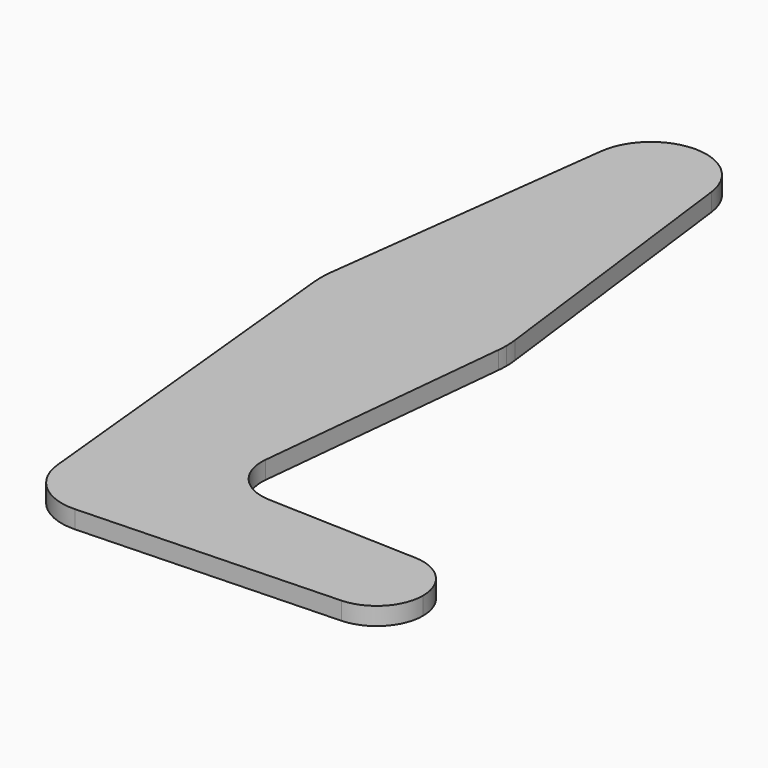
from build123d import *

# Parameters (mm, degrees)
F0_R     = 3.175
F1_DEPTH = 3.048


with BuildPart() as f1:
    # F0 (on Top) → F1 (new body)
    with BuildSketch(Plane.XY):
        with BuildLine():
            ThreePointArc((9.450293, 115.490625), (0, 123.825), (-9.450293, 115.490625))
            ThreePointArc((-9.450293, 115.490625), (-0.596483, 104.793695), (9.525, 114.3))
            ThreePointArc((9.525, 114.3), (9.506305, 114.896483), (9.450293, 115.490625))
        make_face()
        with Locations((0, 114.3)):
            Circle(F0_R, mode=Mode.SUBTRACT)
        with BuildLine():
            Line((-9.450293, 115.490625), (-15.750488, 65.484375))
            ThreePointArc((-15.750488, 65.484375), (0, 79.375), (15.750488, 65.484375))
            Line((15.750488, 65.484375), (9.450293, 115.490625))
            ThreePointArc((9.450293, 115.490625), (9.506305, 114.896483), (9.525, 114.3))
            ThreePointArc((9.525, 114.3), (-0.596483, 104.793695), (-9.450293, 115.490625))
        make_face()
        with Locations((-3.175, 100.0252)):
            Circle(F0_R, mode=Mode.SUBTRACT)
        with BuildLine():
            ThreePointArc((-15.750488, 65.484375), (-15.873744, 63.699705), (-15.795426, 61.9125))
            ThreePointArc((-15.795426, 61.9125), (0, 47.625), (15.795426, 61.9125))
            ThreePointArc((15.795426, 61.9125), (15.855094, 62.705253), (15.875, 63.5))
            ThreePointArc((15.875, 63.5), (15.843841, 64.494139), (15.750488, 65.484375))
            ThreePointArc((15.750488, 65.484375), (0, 79.375), (-15.750488, 65.484375))
        make_face()
        with Locations((0, 63.5)):
            Circle(F0_R, mode=Mode.SUBTRACT)
        with BuildLine():
            ThreePointArc((-9.477255, -0.9525), (-0.476848, 9.513056), (9.525, 0))
            ThreePointArc((9.525, 0), (6.85439, -6.613847), (0.340125, -9.518925))
            Line((0.340125, -9.518925), (44.740459, -7.932438))
            ThreePointArc((44.740459, -7.932438), (36.519522, 0), (44.740459, 7.932438))
            Line((44.740459, 7.932438), (18.967655, 8.853337))
            ThreePointArc((18.967655, 8.853337), (13.261225, 11.571447), (11.341197, 17.593487))
            Line((11.341197, 17.593487), (15.795426, 61.9125))
            ThreePointArc((15.795426, 61.9125), (0, 47.625), (-15.795426, 61.9125))
            Line((-15.795426, 61.9125), (-9.477255, -0.9525))
        make_face()
        with BuildLine():
            ThreePointArc((0.340125, -9.518925), (6.85439, -6.613847), (9.525, 0))
            ThreePointArc((9.525, 0), (-0.476848, 9.513056), (-9.477255, -0.9525))
            ThreePointArc((-9.477255, -0.9525), (-6.262404, -7.176902), (0.340125, -9.518925))
        make_face()
        Circle(F0_R, mode=Mode.SUBTRACT)
        with BuildLine():
            ThreePointArc((44.740459, 7.932438), (36.519522, 0), (44.740459, -7.932438))
            ThreePointArc((44.740459, -7.932438), (50.169013, -5.511539), (52.394522, 0))
            ThreePointArc((52.394522, 0), (50.169013, 5.511539), (44.740459, 7.932438))
        make_face()
        with Locations((44.457022, 0)):
            Circle(F0_R, mode=Mode.SUBTRACT)
        with Locations((44.457022, 0)):
            Circle(F0_R)
        with Locations((-3.175, 100.0252)):
            Circle(F0_R)
        with Locations((0, 63.5)):
            Circle(F0_R)
        with Locations((0, 114.3)):
            Circle(F0_R)
        Circle(F0_R)
    extrude(amount=F1_DEPTH)


solid = f1.part
